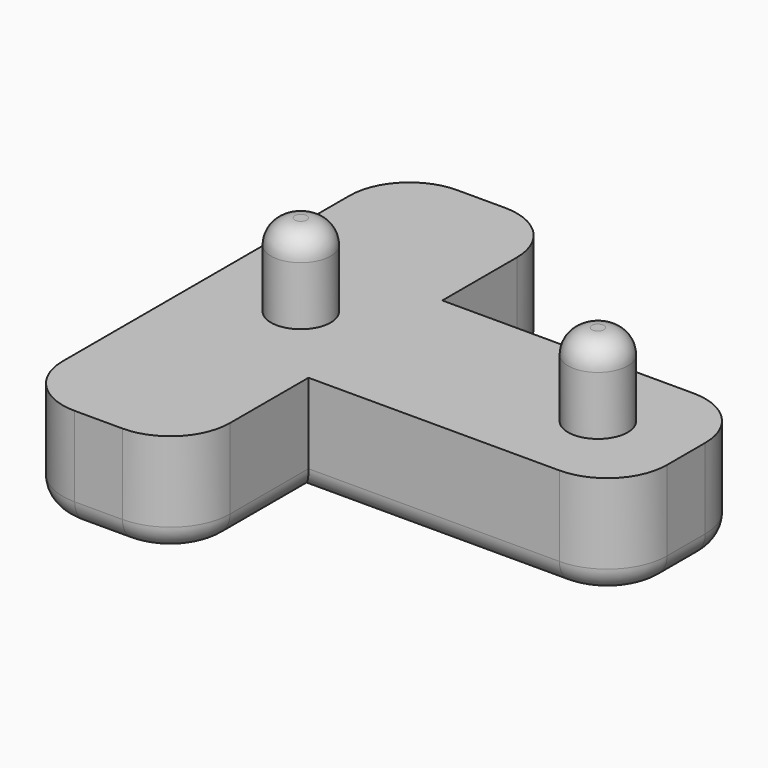
from build123d import *

# Parameters (mm, degrees)
F0_W     = 17.78
F0_H     = 17.78
F1_DEPTH = 11.049
F2_R     = 2.54
F3_R     = 3.175
F4_DEPTH = 8.763
F5_R     = 2.54


with BuildPart() as f1:
    # F0 (on Top) → F1 (new body)
    with BuildSketch(Plane.XY):
        with Locations((-16.51, 0)):
            Rectangle(F0_W, F0_H)
        with BuildLine():
            Line((-7.62, -19.303608), (-7.62, -8.89))
            Line((-7.62, -8.89), (-25.4, -8.89))
            Line((-25.4, -8.89), (-25.4, -19.303608))
            ThreePointArc((-25.4, -19.303608), (-23.540128, -23.793736), (-19.05, -25.653608))
            Line((-19.05, -25.653608), (-13.97, -25.653608))
            ThreePointArc((-13.97, -25.653608), (-9.479872, -23.793736), (-7.62, -19.303608))
        make_face()
        with BuildLine():
            Line((-25.4, 8.89), (-7.62, 8.89))
            Line((-7.62, 8.89), (-7.62, 18.796392))
            ThreePointArc((-7.62, 18.796392), (-9.479872, 23.28652), (-13.97, 25.146392))
            Line((-13.97, 25.146392), (-19.05, 25.146392))
            ThreePointArc((-19.05, 25.146392), (-23.540128, 23.28652), (-25.4, 18.796392))
            Line((-25.4, 18.796392), (-25.4, 8.89))
        make_face()
        with BuildLine():
            Line((-7.62, -8.89), (19.05, -8.89))
            ThreePointArc((19.05, -8.89), (23.540128, -7.030128), (25.4, -2.54))
            Line((25.4, -2.54), (25.4, 2.54))
            ThreePointArc((25.4, 2.54), (23.540128, 7.030128), (19.05, 8.89))
            Line((19.05, 8.89), (-7.62, 8.89))
            Line((-7.62, 8.89), (-7.62, -8.89))
        make_face()
    extrude(amount=F1_DEPTH)

    # F2
    f2_edges = [f1.edges().sort_by_distance(p)[0] for p in [
        (-7.62, -14.096804, 0),
        (5.715, -8.89, 0),
        (23.540128, -7.030128, 0),
    ]]
    fillet(f2_edges, radius=F2_R)

    # F3 (on face) → F4 (join)
    with BuildSketch(Plane.XY.offset(11.049)):
        with Locations((16.021419, 0)):
            Circle(F3_R)
        with Locations((-15.5448, 0)):
            Circle(F3_R)
    extrude(amount=F4_DEPTH)

    # F5
    f5_edges = [f1.edges().sort_by_distance(p)[0] for p in [
        (-18.7198, 0, 19.812),
        (12.846419, 0, 19.812),
    ]]
    fillet(f5_edges, radius=F5_R)


solid = f1.part
